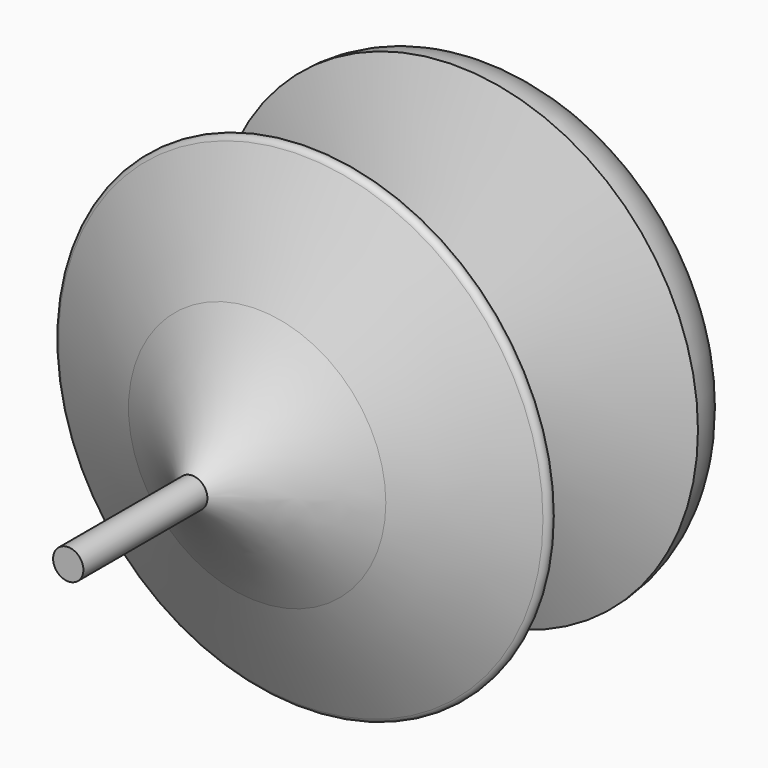
from build123d import *


with BuildPart() as f1:
    # F0 (on Top) → F1 (revolve)
    with BuildSketch(Plane.XY):
        with BuildLine():
            Line((0, 19.05), (0, 0))
            Line((0, 0), (1.5875, 0))
            Line((1.5875, 0), (1.5875, 16.257785))
            ThreePointArc((1.5875, 16.257785), (7.26398, 20.898571), (13.49375, 24.765))
            Line((13.49375, 24.765), (25.4, 30.48))
            ThreePointArc((25.4, 30.48), (25.840055, 31.115), (25.4, 31.75))
            Line((25.4, 31.75), (6.352498, 38.892813))
            ThreePointArc((6.352498, 38.892813), (6.004057, 38.994587), (5.674614, 39.14702))
            ThreePointArc((5.674614, 39.14702), (4.42373, 41.275), (5.674614, 43.40298))
            ThreePointArc((5.674614, 43.40298), (6.004057, 43.555413), (6.352498, 43.657187))
            Line((6.352498, 43.657187), (25.4, 50.8))
            ThreePointArc((25.4, 50.8), (23.540128, 55.290128), (19.05, 57.15))
            Line((19.05, 57.15), (0, 57.15))
            Line((0, 57.15), (0, 50.8))
            Line((0, 50.8), (0, 37.471939))
            Line((0, 37.471939), (0, 31.75))
            Line((0, 31.75), (0, 19.05))
        make_face()
    revolve(axis=Axis((0, 8.740683, 0), (0, -1, 0)))


solid = f1.part
